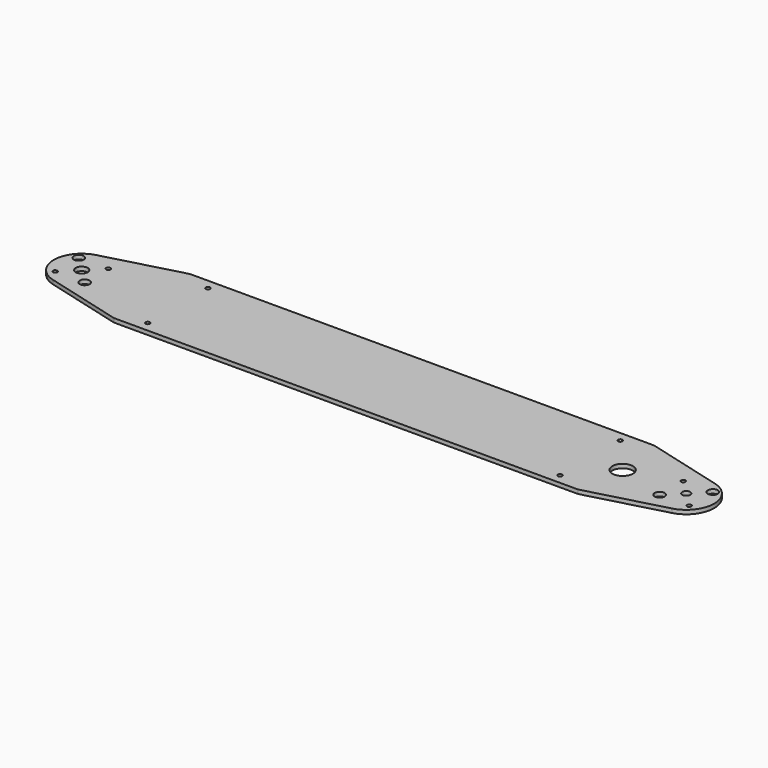
from build123d import *

# Parameters (mm, degrees)
F0_R     = 1.7272
F0_R_2   = 3.96875
F0_R_3   = 4.7625
F0_R_4   = 8.221183
F0_R_5   = 3.175
F1_DEPTH = 3.175


with BuildPart() as f1:
    # F0 (on Top) → F1 (new body)
    with BuildSketch(Plane.XY):
        with BuildLine():
            Line((-426.540354, 38.03015), (-488.352253, 21.467701))
            ThreePointArc((-488.352253, 21.467701), (-504.825, 0), (-488.352253, -21.467701))
            Line((-488.352253, -21.467701), (-426.540354, -38.03015))
            Line((-426.540354, -38.03015), (-420.190354, -38.03015))
            Line((-420.190354, -38.03015), (-62.409646, -38.03015))
            Line((-62.409646, -38.03015), (-56.059646, -38.03015))
            Line((-56.059646, -38.03015), (5.752253, -21.467701))
            ThreePointArc((5.752253, -21.467701), (22.225, 0), (5.752253, 21.467701))
            Line((5.752253, 21.467701), (-56.059646, 38.03015))
            Line((-56.059646, 38.03015), (-62.409646, 38.03015))
            Line((-62.409646, 38.03015), (-420.190354, 38.03015))
            Line((-420.190354, 38.03015), (-426.540354, 38.03015))
        make_face()
        with Locations((-405.902854, -30.09265)):
            Circle(F0_R, mode=Mode.SUBTRACT)
        with Locations((-494.386586, -11.786586)):
            Circle(F0_R, mode=Mode.SUBTRACT)
        with Locations((-470.813414, -11.786586)):
            Circle(F0_R_2, mode=Mode.SUBTRACT)
        with Locations((-76.697146, -30.09265)):
            Circle(F0_R, mode=Mode.SUBTRACT)
        with Locations((-11.786586, -11.786586)):
            Circle(F0_R_2, mode=Mode.SUBTRACT)
        with Locations((11.786586, -11.786586)):
            Circle(F0_R, mode=Mode.SUBTRACT)
        with Locations((-482.6, 0)):
            Circle(F0_R_3, mode=Mode.SUBTRACT)
        with Locations((-494.386586, 11.786586)):
            Circle(F0_R_2, mode=Mode.SUBTRACT)
        with Locations((-470.813414, 11.786586)):
            Circle(F0_R, mode=Mode.SUBTRACT)
        with Locations((-405.902854, 30.09265)):
            Circle(F0_R, mode=Mode.SUBTRACT)
        with Locations((-50.8, 0)):
            Circle(F0_R_4, mode=Mode.SUBTRACT)
        Circle(F0_R_5, mode=Mode.SUBTRACT)
        with Locations((-11.786586, 11.786586)):
            Circle(F0_R, mode=Mode.SUBTRACT)
        with Locations((11.786586, 11.786586)):
            Circle(F0_R_2, mode=Mode.SUBTRACT)
        with Locations((-76.697146, 30.09265)):
            Circle(F0_R, mode=Mode.SUBTRACT)
    extrude(amount=F1_DEPTH)


solid = f1.part
